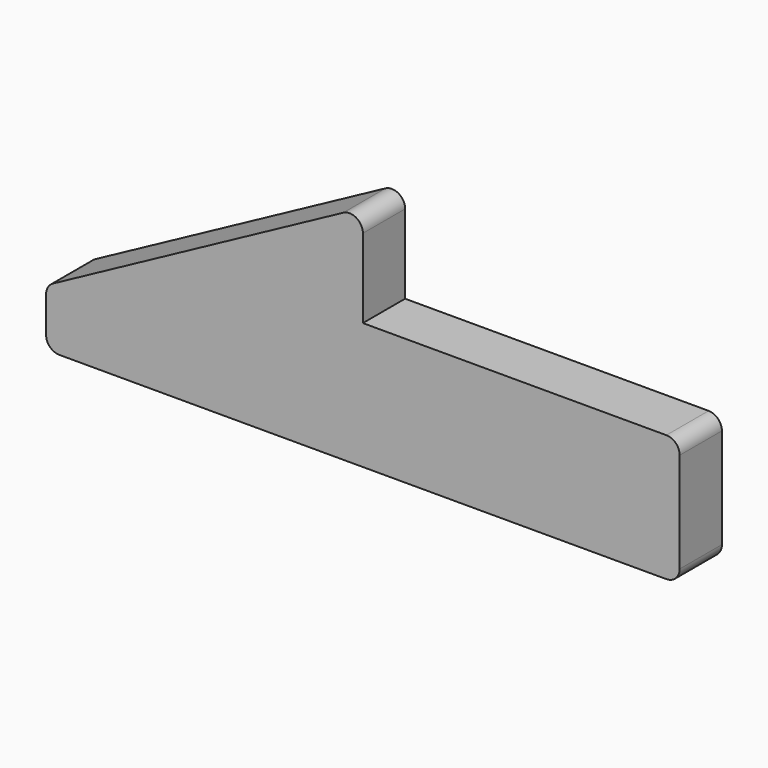
from build123d import *

# Parameters (mm, degrees)
F1_DEPTH = 6.35


with BuildPart() as f1:
    # F0 (on Front) → F1 (new body)
    with BuildSketch(Plane.XZ):
        with BuildLine():
            ThreePointArc((-38.1, 1.6002), (-37.631312, 0.468688), (-36.4998, 0))
            Line((-36.4998, 0), (36.4998, 0))
            ThreePointArc((36.4998, 0), (37.631312, 0.468688), (38.1, 1.6002))
            Line((38.1, 1.6002), (38.1, 13.6398))
            ThreePointArc((38.1, 13.6398), (37.631312, 14.771312), (36.4998, 15.24))
            Line((36.4998, 15.24), (0, 15.24))
            Line((0, 15.24), (0, 24.749287))
            ThreePointArc((0, 24.749287), (-0.780458, 26.123574), (-2.360533, 26.157312))
            Line((-2.360533, 26.157312), (-37.260133, 7.311528))
            ThreePointArc((-37.260133, 7.311528), (-37.874086, 6.723246), (-38.1, 5.903503))
            Line((-38.1, 5.903503), (-38.1, 1.6002))
        make_face()
    extrude(amount=F1_DEPTH)


solid = f1.part
